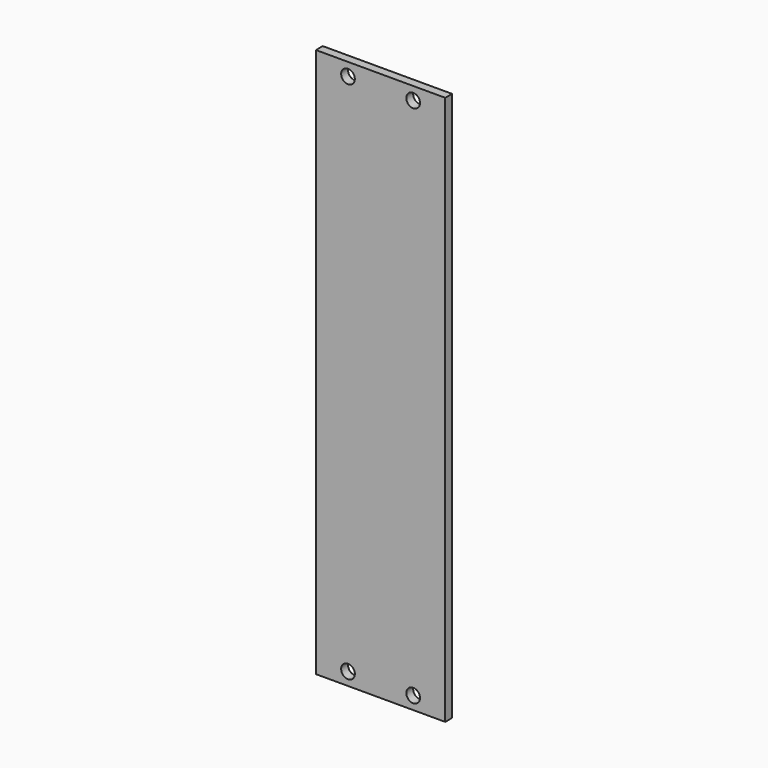
from build123d import *

# Parameters (mm, degrees)
SKETCH_W  = 30.24
SKETCH_H  = 128.5
SKETCH_R  = 1.6
PAD_DEPTH = 2


with BuildPart() as part:
    # Sketch → Pad (new body)
    with BuildSketch(Plane.XZ):
        Rectangle(SKETCH_W, SKETCH_H)
        with Locations((-7.62, 61.25)):
            Circle(SKETCH_R, mode=Mode.SUBTRACT)
        with Locations((7.62, 61.25)):
            Circle(SKETCH_R, mode=Mode.SUBTRACT)
        with Locations((7.62, -61.25)):
            Circle(SKETCH_R, mode=Mode.SUBTRACT)
        with Locations((-7.62, -61.25)):
            Circle(SKETCH_R, mode=Mode.SUBTRACT)
    extrude(amount=PAD_DEPTH)


solid = part.part
